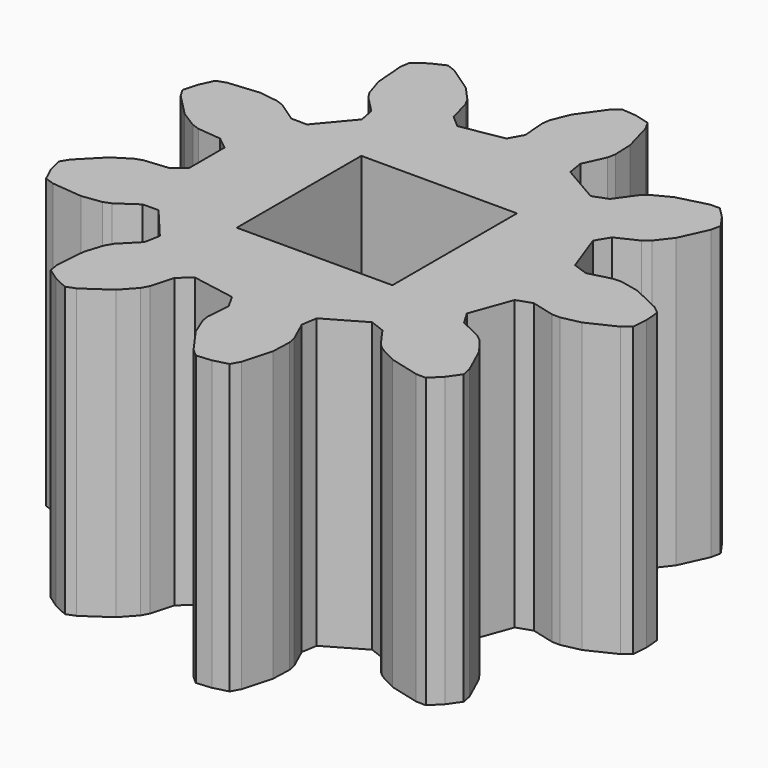
from build123d import *

# Parameters (mm, degrees)
F1_DEPTH = 15
F2_W     = 8.1
F2_H     = 8.1
F3_DEPTH = 15.001


with BuildPart() as f1:
    # F0 (on Top) → F1 (new body)
    with BuildSketch(Plane.XY):
        Polygon((9.68382, -9.550715), (10.192379, -9.560642), (10.750372, -9.002649), (11.202993, -8.356238), (11.104907, -7.857129), (10.443332, -6.402182), (9.825447, -5.605176), (9.499566, -5.342395), (8.382424, -4.808387), (7.960216, -4.101107), (8.739034, -1.961321), (9.517096, -1.690903), (10.716129, -1.999914), (11.134681, -2.008084), (12.120314, -1.794712), (13.562332, -1.105409), (13.958292, -0.786118), (14.027068, 0), (13.958292, 0.786118), (13.562332, 1.105409), (12.120314, 1.794712), (11.134681, 2.008084), (10.716129, 1.999914), (9.517096, 1.690903), (8.739034, 1.961321), (7.960216, 4.101107), (8.382424, 4.808387), (9.499566, 5.342395), (9.825447, 5.605176), (10.443332, 6.402182), (11.104907, 7.857129), (11.202993, 8.356238), (10.750372, 9.002649), (10.192379, 9.560642), (9.68382, 9.550715), (8.136095, 9.15184), (7.243903, 8.68174), (6.928526, 8.406442), (6.208641, 7.399001), (5.43879, 7.106025), (3.466753, 8.244581), (3.335552, 9.05778), (3.848079, 10.184939), (3.928805, 10.595713), (3.889828, 11.603424), (3.461401, 13.14323), (3.215719, 13.588618), (2.453486, 13.792858), (1.667367, 13.861634), (1.28417, 13.527134), (0.354935, 12.22672), (-0.026349, 11.293113), (-0.090983, 10.879501), (0.005123, 9.645024), (-0.396296, 8.925741), (-2.638814, 8.530325), (-3.262033, 9.068937), (-3.593939, 10.261836), (-3.796139, 10.628398), (-4.473741, 11.375294), (-5.791704, 12.279467), (-6.266198, 12.462733), (-6.981384, 12.129236), (-7.627795, 11.676614), (-7.706329, 11.174057), (-7.582274, 9.580582), (-7.274243, 8.620313), (-7.057892, 8.261922), (-6.190763, 7.378034), (-6.035921, 6.569004), (-7.499621, 4.824634), (-8.323248, 4.836637), (-9.344283, 5.537106), (-9.734799, 5.687937), (-10.733969, 5.824539), (-12.324777, 5.670005), (-12.806062, 5.505396), (-13.139559, 4.790209), (-13.343798, 4.027977), (-13.080922, 3.592515), (-11.961624, 2.451584), (-11.10841, 1.913973), (-10.712305, 1.778497), (-9.479894, 1.658779), (-8.841244, 1.138556), (-8.841244, -1.138556), (-9.479894, -1.658779), (-10.712305, -1.778497), (-11.10841, -1.913973), (-11.961624, -2.451584), (-13.080922, -3.592515), (-13.343798, -4.027977), (-13.139559, -4.790209), (-12.806062, -5.505396), (-12.324777, -5.670005), (-10.733969, -5.824539), (-9.734799, -5.687937), (-9.344283, -5.537106), (-8.323248, -4.836637), (-7.499621, -4.824634), (-6.035921, -6.569004), (-6.190763, -7.378034), (-7.057892, -8.261922), (-7.274243, -8.620313), (-7.582274, -9.580582), (-7.706329, -11.174057), (-7.627795, -11.676614), (-6.981384, -12.129236), (-6.266198, -12.462733), (-5.791704, -12.279467), (-4.473741, -11.375294), (-3.796139, -10.628398), (-3.593939, -10.261836), (-3.262033, -9.068937), (-2.638814, -8.530325), (-0.396296, -8.925741), (0.005123, -9.645024), (-0.090983, -10.879501), (-0.026349, -11.293113), (0.354935, -12.22672), (1.28417, -13.527134), (1.667367, -13.861634), (2.453486, -13.792858), (3.215719, -13.588618), (3.461401, -13.14323), (3.889828, -11.603424), (3.928805, -10.595713), (3.848079, -10.184939), (3.335552, -9.05778), (3.466753, -8.244581), (5.43879, -7.106025), (6.208641, -7.399001), (6.928526, -8.406442), (7.243903, -8.68174), (8.136095, -9.15184), align=None)
    extrude(amount=F1_DEPTH)

    # F2 (on face) → F3 (cut, through all)
    with BuildSketch(Plane.XY.offset(15)):
        Rectangle(F2_W, F2_H)
    extrude(amount=-F3_DEPTH, mode=Mode.SUBTRACT)


solid = f1.part
